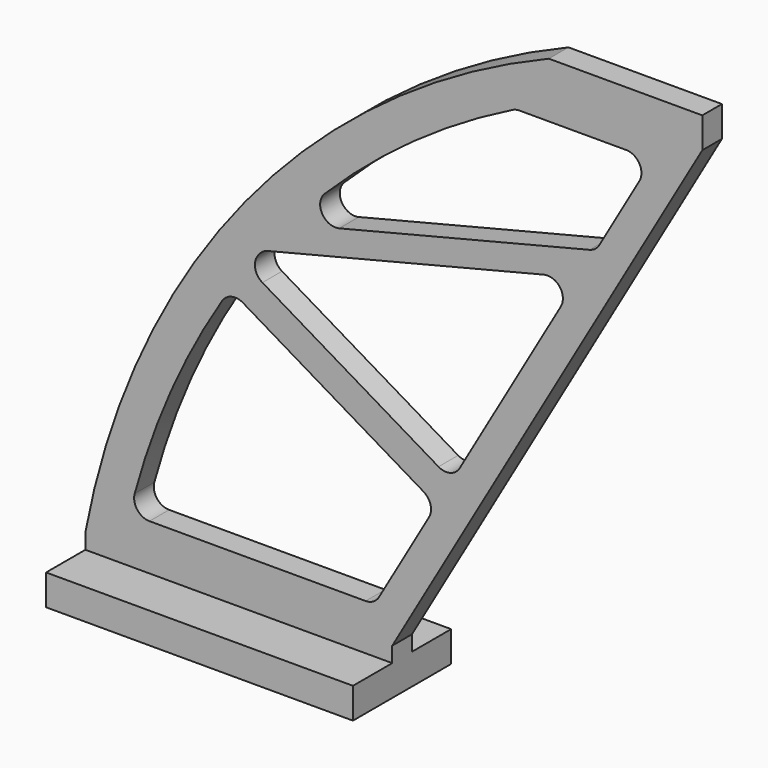
from build123d import *

# Parameters (mm, degrees)
F1_DEPTH = 4.064
F0_W     = 101.6
F0_H     = 10.16
F2_DEPTH = 20.32


with BuildPart() as f1:
    # F0 (on Front) → F1 (new body, symmetric)
    with BuildSketch(Plane.XZ):
        with BuildLine():
            ThreePointArc((153.452878, 203.2), (52.830692, 128.728784), (0, 15.24))
            Line((0, 15.24), (0, 10.16))
            Line((0, 10.16), (101.6, 10.16))
            Line((101.6, 10.16), (101.6, 15.24))
            Line((101.6, 15.24), (204.252878, 193.04))
            Line((204.252878, 193.04), (204.252878, 203.2))
            Line((204.252878, 203.2), (153.452878, 203.2))
        make_face()
        with BuildLine():
            Line((92.801182, 25.4), (21.226424, 25.4))
            ThreePointArc((21.226424, 25.4), (17.188655, 27.397336), (16.325996, 31.818734))
            ThreePointArc((16.325996, 31.818734), (28.359119, 65.714775), (45.287139, 97.450871))
            ThreePointArc((45.287139, 97.450871), (48.39745, 99.67396), (52.177043, 99.098778))
            Line((52.177043, 99.098778), (111.956531, 63.523804))
            ThreePointArc((111.956531, 63.523804), (114.27411, 60.440693), (113.758037, 56.618337))
            Line((113.758037, 56.618337), (97.200591, 27.94))
            ThreePointArc((97.200591, 27.94), (95.341182, 26.080591), (92.801182, 25.4))
        make_face(mode=Mode.SUBTRACT)
        with BuildLine():
            Line((60.353951, 116.882829), (151.789779, 139.711306))
            ThreePointArc((151.789779, 139.711306), (157.076895, 137.840462), (157.419723, 132.242596))
            Line((157.419723, 132.242596), (123.918924, 74.21751))
            ThreePointArc((123.918924, 74.21751), (120.801871, 71.842028), (116.921611, 72.392043))
            Line((116.921611, 72.392043), (58.60911, 107.094008))
            ThreePointArc((58.60911, 107.094008), (56.220096, 110.491455), (57.164538, 114.535965))
            ThreePointArc((57.164538, 114.535965), (57.357158, 114.788721), (57.550111, 115.041224))
            ThreePointArc((57.550111, 115.041224), (58.795634, 116.200141), (60.353951, 116.882829))
        make_face(mode=Mode.SUBTRACT)
        with BuildLine():
            Line((143.720428, 184.912), (179.029599, 184.912))
            ThreePointArc((179.029599, 184.912), (183.429008, 182.372), (183.429008, 177.292))
            Line((183.429008, 177.292), (170.135294, 154.266611))
            ThreePointArc((170.135294, 154.266611), (168.793752, 152.75003), (166.966419, 151.877901))
            Line((166.966419, 151.877901), (84.043811, 131.174891))
            ThreePointArc((84.043811, 131.174891), (78.387658, 133.609547), (79.234455, 139.708936))
            ThreePointArc((79.234455, 139.708936), (108.561894, 164.521107), (141.448627, 184.375712))
            ThreePointArc((141.448627, 184.375712), (142.553307, 184.776111), (143.720428, 184.912))
        make_face(mode=Mode.SUBTRACT)
    extrude(amount=F1_DEPTH, both=True)

    # F0 (on Front) → F2 (join, symmetric)
    with BuildSketch(Plane.XZ):
        with Locations((50.8, 5.08)):
            Rectangle(F0_W, F0_H)
    extrude(amount=F2_DEPTH, both=True)


solid = f1.part
